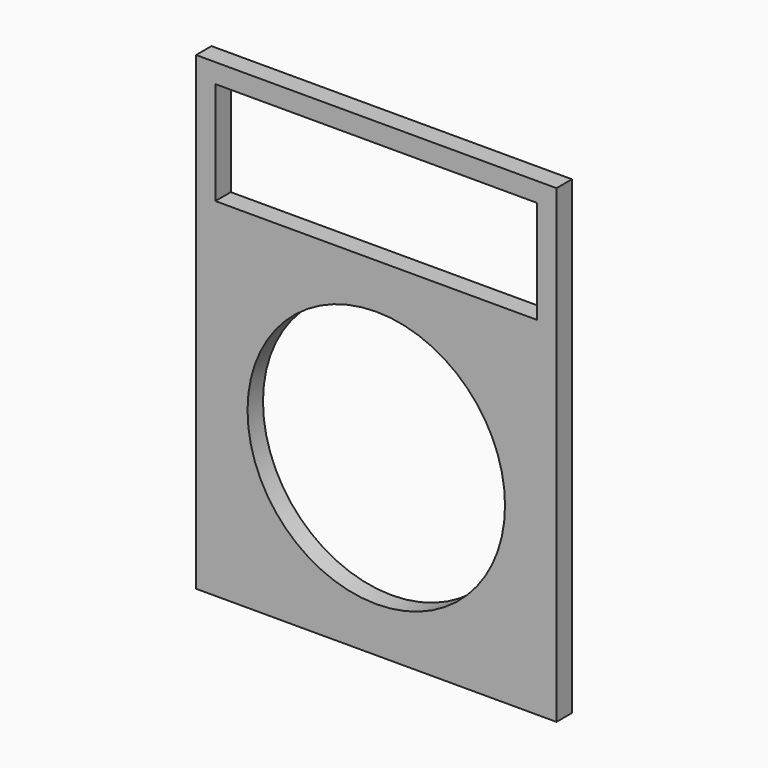
from build123d import *

# Parameters (mm, degrees)
F0_W     = 355.6
F0_H     = 463.55
F1_DEPTH = 19.05
F2_W     = 317.5
F2_H     = 101.6
F3_DEPTH = 19.051
F4_R     = 127
F5_DEPTH = 19.051


with BuildPart() as f1:
    # F0 (on Front) → F1 (new body)
    with BuildSketch(Plane.XZ):
        Rectangle(F0_W, F0_H)
    extrude(amount=F1_DEPTH)

    # F2 (on face) → F3 (cut, through all)
    with BuildSketch(Plane.XZ.offset(19.05)):
        with Locations((0, 161.925)):
            Rectangle(F2_W, F2_H)
    extrude(amount=-F3_DEPTH, mode=Mode.SUBTRACT)

    # F4 (on face) → F5 (cut, through all)
    with BuildSketch(Plane.XZ.offset(19.05)):
        with Locations((0, -60.325)):
            Circle(F4_R)
    extrude(amount=-F5_DEPTH, mode=Mode.SUBTRACT)


solid = f1.part
